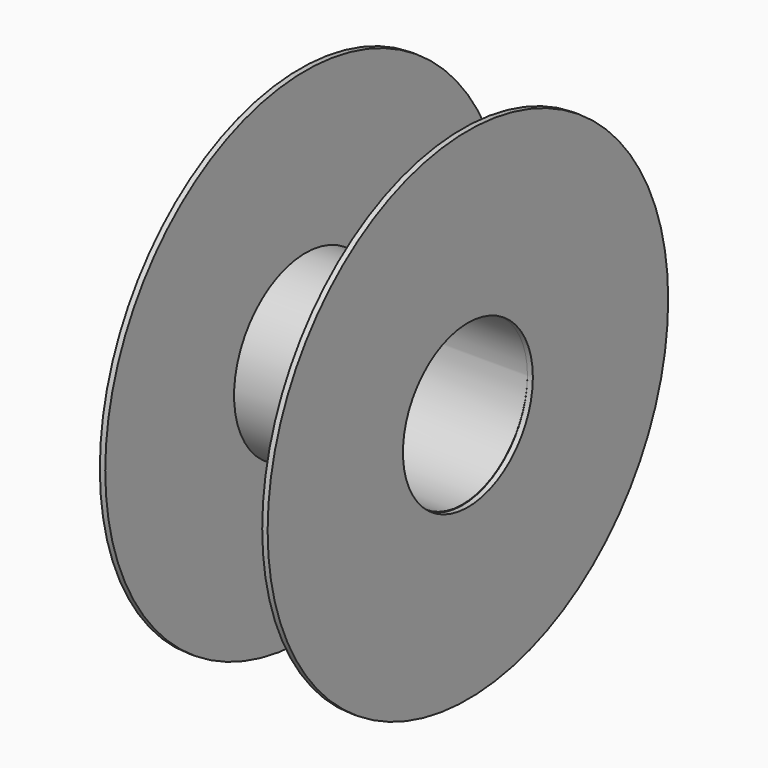
from build123d import *

# Parameters (mm, degrees)
SKETCH013_R   = 92.5
SKETCH013_R_2 = 30
PAD013_DEPTH  = 2
SKETCH014_R   = 33
SKETCH014_R_2 = 30
PAD014_DEPTH  = 58
SKETCH012_R   = 92.5
SKETCH012_R_2 = 30
PAD012_DEPTH  = 2


with BuildPart() as pad013:
    # Sketch013 → Pad013 (new body)
    with BuildSketch(Plane.YZ.offset(60)):
        with Locations((138.947021, 143.910721)):
            Circle(SKETCH013_R)
        with Locations((138.947021, 143.910721)):
            Circle(SKETCH013_R_2, mode=Mode.SUBTRACT)
    extrude(amount=PAD013_DEPTH)


with BuildPart() as pad014:
    # Sketch014 → Pad014 (new body)
    with BuildSketch(Plane.YZ.offset(2)):
        with Locations((138.95018, 144.130356)):
            Circle(SKETCH014_R)
        with Locations((138.95018, 144.130356)):
            Circle(SKETCH014_R_2, mode=Mode.SUBTRACT)
    extrude(amount=PAD014_DEPTH)


with BuildPart() as obj1:
    # Sketch012 → Pad012 (new body)
    with BuildSketch(Plane.YZ):
        with Locations((138.947021, 143.910721)):
            Circle(SKETCH012_R)
        with Locations((138.947021, 143.910721)):
            Circle(SKETCH012_R_2, mode=Mode.SUBTRACT)
    extrude(amount=PAD012_DEPTH)

    # Fusion014: union Pad013, Pad014
    add(pad013.part)
    add(pad014.part)


with BuildPart() as obj1_1:
    # Fusion014 placement: moved
    add(obj1.part.moved(Location((167, -8, 180))))


solid = obj1_1.part
